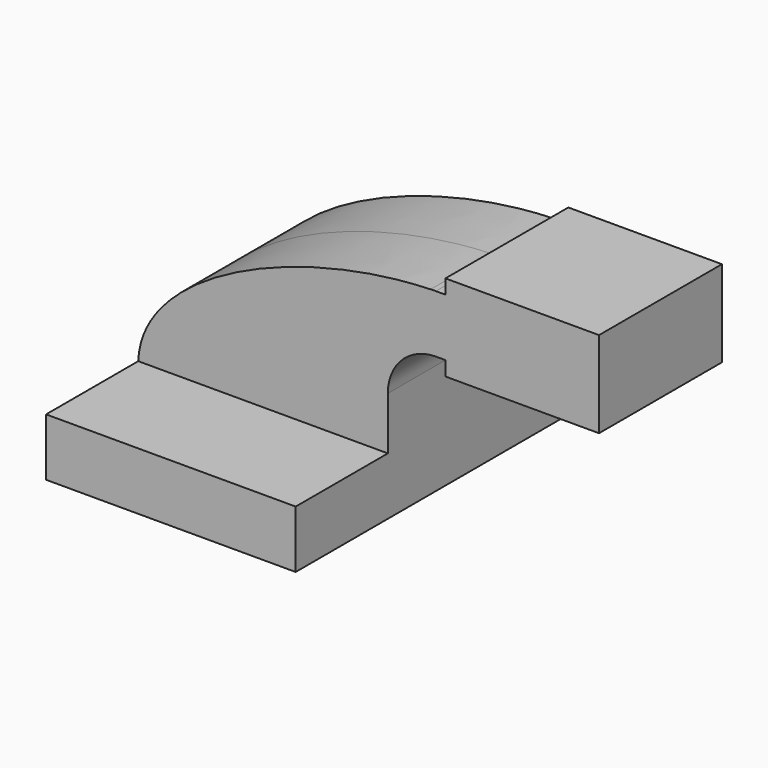
from build123d import *

# Parameters (mm, degrees)
F1_DEPTH = 63.5
F2_DEPTH = 25.4


with BuildPart() as f1:
    # F0 (on Front) → F1 (new body, symmetric)
    with BuildSketch(Plane.XZ):
        Polygon((41.275, -9.525), (41.275, 9.525), (22.225, 9.525), (-41.275, 9.525), (-41.275, -9.525), align=None)
    extrude(amount=F1_DEPTH, both=True)

    # F0 (on Front) → F2 (join, symmetric)
    with BuildSketch(Plane.XZ):
        Polygon((41.275, -9.525), (41.275, 9.525), (22.225, 9.525), (-41.275, 9.525), (-41.275, -9.525), align=None)
        with BuildLine():
            Line((22.225, 9.525), (41.275, 9.525))
            Line((41.275, 9.525), (41.275, 27.0002))
            ThreePointArc((41.275, 27.0002), (45.9246798487, 38.2255201513), (57.15, 42.8752))
            Line((57.15, 42.8752), (60.325, 42.8752))
            Line((60.325, 42.8752), (60.325, 61.9252))
            Line((60.325, 61.9252), (57.15, 61.9252))
            add(Edge.make_bspline(
                [(55.4023728555, 61.88144746), (55.986450331, 61.8998000023), (56.5690399919, 61.9143959357), (57.15, 61.9252)],
                knots=[110.0324820913, 110.0324820913, 110.0324820913, 110.0324820913, 111.5045361635, 111.5045361635, 111.5045361635, 111.5045361635], degree=3))
            ThreePointArc((55.4023728555, 61.88144746), (31.8439582014, 51.0700955853), (22.225, 27.0002))
            Line((22.225, 27.0002), (22.225, 9.525))
        make_face()
        with BuildLine():
            Line((-41.275, 9.525), (22.225, 9.525))
            Line((22.225, 9.525), (22.225, 27.0002))
            ThreePointArc((22.225, 27.0002), (31.8439582014, 51.0700955853), (55.4023728555, 61.88144746))
            add(Edge.make_bspline(
                [(-41.275, 9.525), (-40.2271035766, 38.1489025525), (11.7439940144, 60.5096393046), (55.4023728555, 61.88144746)],
                knots=[0, 0, 0, 0, 110.0324820913, 110.0324820913, 110.0324820913, 110.0324820913], degree=3))
        make_face()
        with BuildLine():
            ThreePointArc((57.15, 61.9252), (56.2759126301, 61.9142601516), (55.4023728555, 61.88144746))
            add(Edge.make_bspline(
                [(55.4023728555, 61.88144746), (55.986450331, 61.8998000023), (56.5690399919, 61.9143959357), (57.15, 61.9252)],
                knots=[110.0324820913, 110.0324820913, 110.0324820913, 110.0324820913, 111.5045361635, 111.5045361635, 111.5045361635, 111.5045361635], degree=3))
        make_face()
        Polygon((85.7319235802, 42.8752), (60.325, 42.8752), (60.325, 38.1), (111.125, 38.1), (111.125, 66.675), (60.325, 66.675), (60.325, 61.9252), (85.2659866214, 61.9252), align=None)
        Polygon((60.325, 61.9252), (60.325, 42.8752), (85.7319235802, 42.8752), (85.2659866214, 61.9252), align=None)
    extrude(amount=F2_DEPTH, both=True)


solid = f1.part
